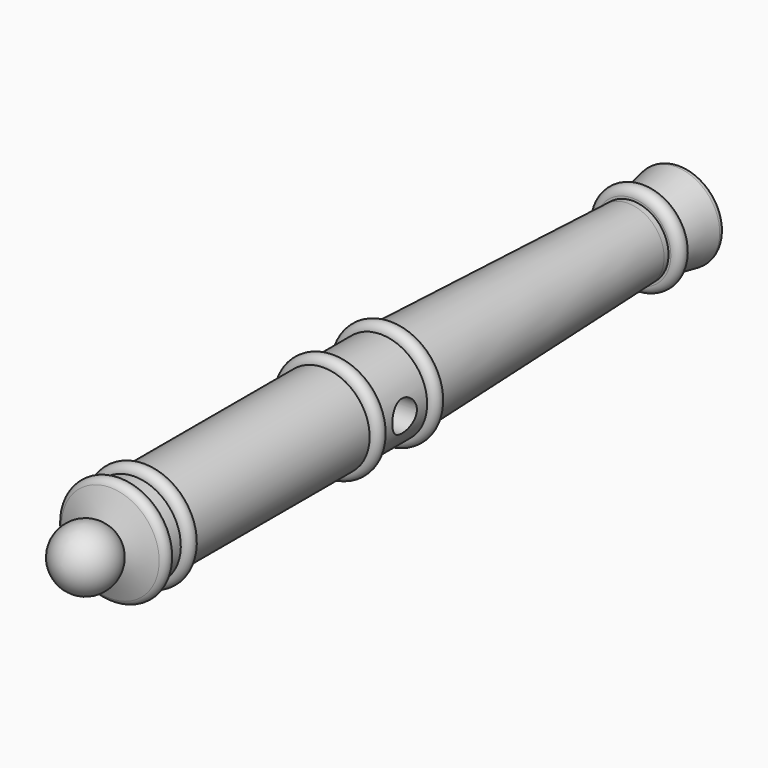
from build123d import *

# Parameters (mm, degrees)
F2_R     = 3
F3_DEPTH = 25
F4_R     = 2
F5_DEPTH = 25


with BuildPart() as f1:
    # F0 (on Right) → F1 (revolve)
    with BuildSketch(Plane.YZ):
        with BuildLine():
            Line((-1.5615727726, 9), (-4.5615727726, 9))
            Line((-4.5615727726, 9), (-12.5615727726, 9))
            ThreePointArc((-12.5615727726, 9), (-14.0615727726, 10.5), (-15.5615727726, 9))
            Line((-15.5615727726, 9), (-58.5615727726, 9))
            ThreePointArc((-58.5615727726, 9), (-60.0615727726, 10.5), (-61.5615727726, 9))
            Line((-61.5615727726, 9), (-64.5615727726, 9))
            ThreePointArc((-64.5615727726, 9), (-65.8011005061, 10.4772116295), (-67.4711117037, 9.513030215))
            Line((-67.4711117037, 9.513030215), (-69.3707455906, 4.2938290057))
            ThreePointArc((-69.3707455906, 4.2938290057), (-75.8912762846, 5.5292387854), (-79.5615727726, 0))
            Line((-79.5615727726, 0), (-71.7016530797, 0))
            Line((-71.7016530797, 0), (-66.8924802618, 0))
            Line((-66.8924802618, 0), (-63.8924802618, 0))
            Line((-63.8924802618, 0), (-60.8924802618, 0))
            Line((-60.8924802618, 0), (-15.5615727726, 0))
            Line((-15.5615727726, 0), (-12.5615727726, 0))
            Line((-12.5615727726, 0), (-7.0615727726, 0))
            Line((-7.0615727726, 0), (-1.5615727726, 0))
            Line((-1.5615727726, 0), (0, 0))
            Line((0, 0), (1.4384272274, 0))
            Line((1.4384272274, 0), (59.7760136759, 0))
            Line((59.7760136759, 0), (62.7760136759, 0))
            Line((62.7760136759, 0), (71.4384272274, 0))
            Line((71.4384272274, 0), (71.4384272274, 7.5582464074))
            ThreePointArc((71.4384272274, 7.5582464074), (71.0812148371, 8.3242908505), (70.2647790498, 8.5430541604))
            Line((70.2647790498, 8.5430541604), (62.9384272274, 7.251220664))
            ThreePointArc((62.9384272274, 7.251220664), (61.4432251201, 8.9978890992), (59.7760136759, 7.4145742332))
            Line((59.7760136759, 7.4145742332), (59.7760136759, 7.251220664))
            Line((59.7760136759, 7.251220664), (59.7760136759, 6.9628065909))
            Line((59.7760136759, 6.9628065909), (58.6461982296, 7.0022606157))
            Line((58.6461982296, 7.0022606157), (1.4384272274, 9))
            ThreePointArc((1.4384272274, 9), (-0.0615727726, 10.5), (-1.5615727726, 9))
        make_face()
        with BuildLine():
            Line((-1.5615727726, 9), (-4.5615727726, 9))
            Line((-4.5615727726, 9), (-12.5615727726, 9))
            ThreePointArc((-12.5615727726, 9), (-14.0615727726, 10.5), (-15.5615727726, 9))
            Line((-15.5615727726, 9), (-58.5615727726, 9))
            ThreePointArc((-58.5615727726, 9), (-60.0615727726, 10.5), (-61.5615727726, 9))
            Line((-61.5615727726, 9), (-64.5615727726, 9))
            ThreePointArc((-64.5615727726, 9), (-65.8011005061, 10.4772116295), (-67.4711117037, 9.513030215))
            Line((-67.4711117037, 9.513030215), (-69.3707455906, 4.2938290057))
            ThreePointArc((-69.3707455906, 4.2938290057), (-75.8912762846, 5.5292387854), (-79.5615727726, 0))
            Line((-79.5615727726, 0), (-71.7016530797, 0))
            Line((-71.7016530797, 0), (-66.8924802618, 0))
            Line((-66.8924802618, 0), (-63.8924802618, 0))
            Line((-63.8924802618, 0), (-60.8924802618, 0))
            Line((-60.8924802618, 0), (-15.5615727726, 0))
            Line((-15.5615727726, 0), (-12.5615727726, 0))
            Line((-12.5615727726, 0), (-7.0615727726, 0))
            Line((-7.0615727726, 0), (-1.5615727726, 0))
            Line((-1.5615727726, 0), (0, 0))
            Line((0, 0), (1.4384272274, 0))
            Line((1.4384272274, 0), (59.7760136759, 0))
            Line((59.7760136759, 0), (62.7760136759, 0))
            Line((62.7760136759, 0), (71.4384272274, 0))
            Line((71.4384272274, 0), (71.4384272274, 7.5582464074))
            ThreePointArc((71.4384272274, 7.5582464074), (71.0812148371, 8.3242908505), (70.2647790498, 8.5430541604))
            Line((70.2647790498, 8.5430541604), (62.9384272274, 7.251220664))
            ThreePointArc((62.9384272274, 7.251220664), (61.4432251201, 8.9978890992), (59.7760136759, 7.4145742332))
            Line((59.7760136759, 7.4145742332), (59.7760136759, 7.251220664))
            Line((59.7760136759, 7.251220664), (59.7760136759, 6.9628065909))
            Line((59.7760136759, 6.9628065909), (58.6461982296, 7.0022606157))
            Line((58.6461982296, 7.0022606157), (1.4384272274, 9))
            ThreePointArc((1.4384272274, 9), (-0.0615727726, 10.5), (-1.5615727726, 9))
        make_face()
    revolve(axis=Axis((0, 29.8880068379, 0), (0, 1, 0)))

    # F2 (on Right) → F3 (cut, symmetric)
    with BuildSketch(Plane.YZ):
        with Locations((-7.0615094155, 0)):
            Circle(F2_R)
    extrude(amount=F3_DEPTH, both=True, mode=Mode.SUBTRACT)

    # F4 (on Top) → F5 (cut)
    with BuildSketch(Plane.XY):
        with Locations((0, -7.0615727726)):
            Circle(F4_R)
    extrude(amount=-F5_DEPTH, mode=Mode.SUBTRACT)


solid = f1.part
